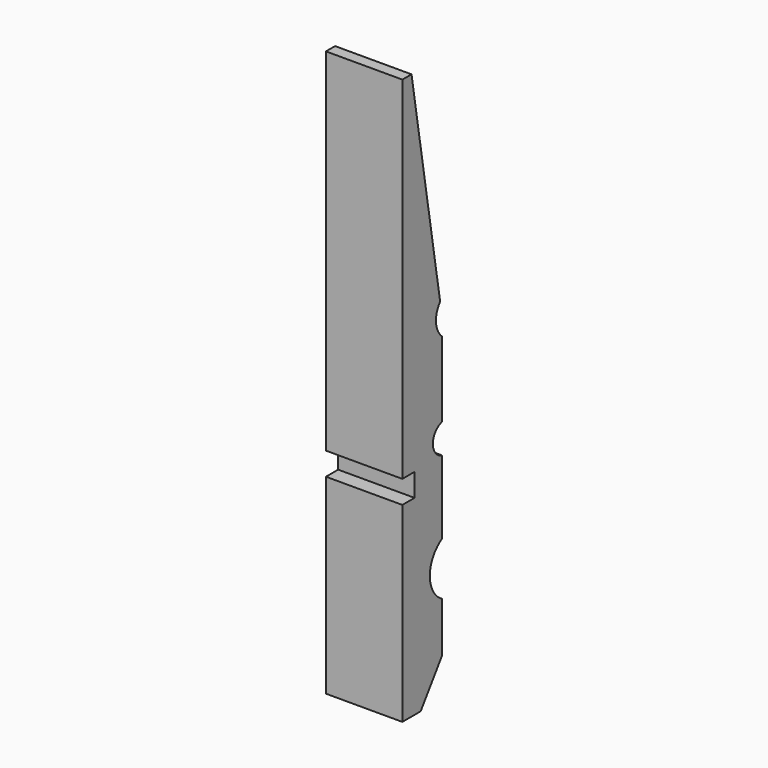
from build123d import *

# Parameters (mm, degrees)
F1_DEPTH = 10


with BuildPart() as f1:
    # F0 (on Right) → F1 (new body)
    with BuildSketch(Plane.YZ):
        with BuildLine():
            Line((0, 25), (0, 0))
            Line((0, 0), (3, 0))
            Line((3, 0), (6.5, 5))
            Line((6.5, 5), (6.5, 11.535898))
            ThreePointArc((6.5, 11.535898), (4.5, 15), (6.5, 18.464102))
            Line((6.5, 18.464102), (6.5, 28.063508))
            ThreePointArc((6.5, 28.063508), (5, 30), (6.5, 31.936492))
            Line((6.5, 31.936492), (6.5, 41.763932))
            ThreePointArc((6.5, 41.763932), (5.508779, 43.770658), (6.182494, 45.905037))
            Line((6.182494, 45.905037), (1.5, 74))
            Line((1.5, 74), (0, 74))
            Line((0, 74), (0, 28))
            Line((0, 28), (2, 28))
            Line((2, 28), (2, 25))
            Line((2, 25), (0, 25))
        make_face()
    extrude(amount=F1_DEPTH)


solid = f1.part
